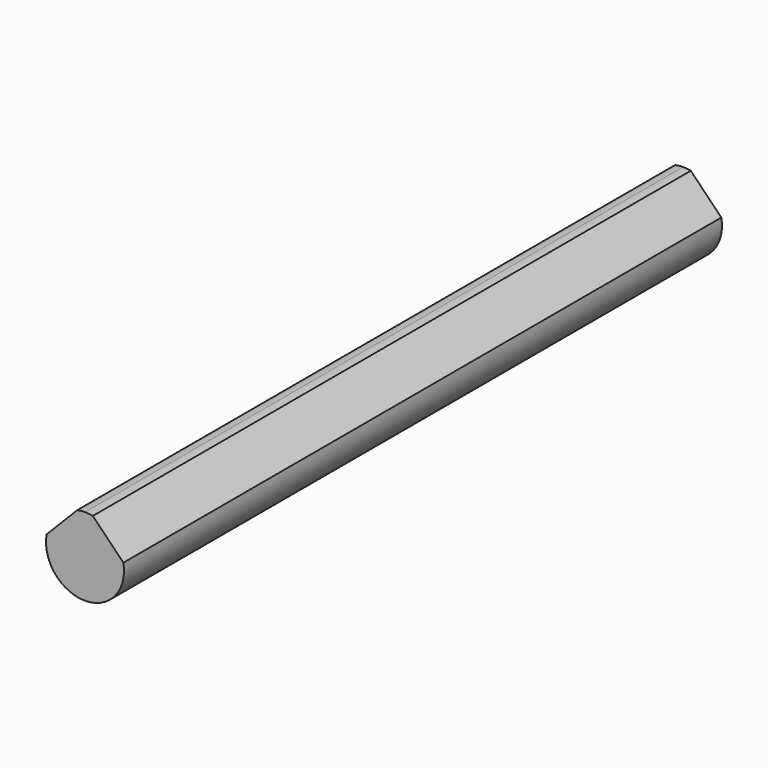
from build123d import *

# Parameters (mm, degrees)
F1_DEPTH = 76.2


with BuildPart() as f1:
    # F0 (on Front) → F1 (new body)
    with BuildSketch(Plane.XZ):
        with BuildLine():
            Line((3.910824, 0.711952), (0.79495, 3.894801))
            ThreePointArc((0.79495, 3.894801), (0.399498, 3.954974), (0, 3.9751))
            ThreePointArc((0, 3.9751), (-0.399498, 3.954974), (-0.79495, 3.894801))
            Line((-0.79495, 3.894801), (-3.910824, 0.711952))
            ThreePointArc((-3.910824, 0.711952), (0, -3.9751), (3.910824, 0.711952))
        make_face()
    extrude(amount=F1_DEPTH)


solid = f1.part
